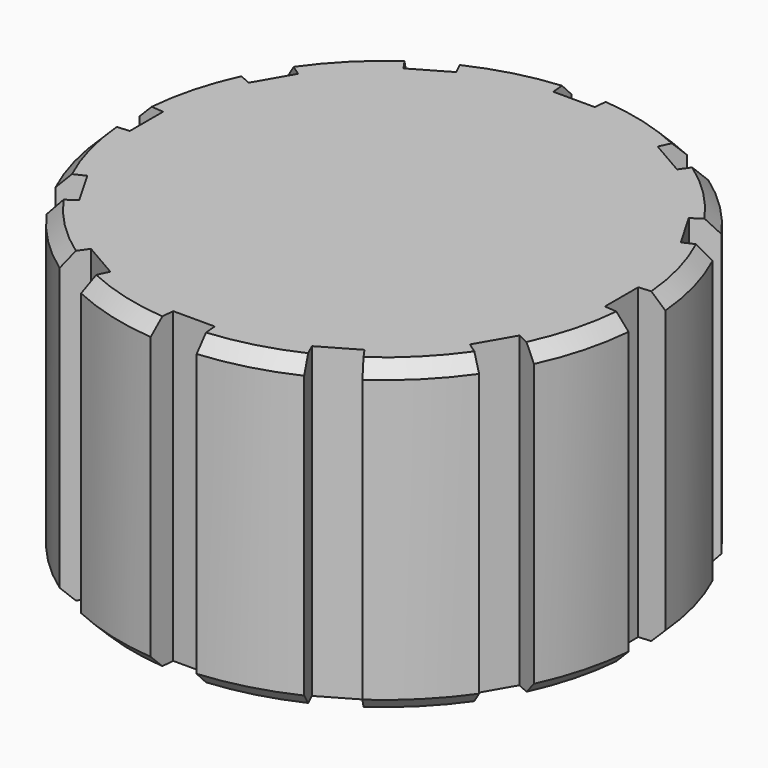
from build123d import *

# Parameters (mm, degrees)
SKETCH002_R        = 12
PAD002_DEPTH       = 14
CHAMFER_SIZE       = 0.6
POCKET_DEPTH       = 73.431239
POCKET_DEPTH_BACK  = 87.431239
POLARPATTERN_COUNT = 12
SKETCH_R           = 3.5
POCKET001_DEPTH    = 2
SKETCH004_R        = 2.9
POCKET002_DEPTH    = 9
SKETCH005_W        = 0.7
SKETCH005_H        = 6.120777
PAD_DEPTH          = 3


with BuildPart() as part:
    # Sketch002 → Pad002 (new body)
    with BuildSketch(Plane.XY):
        Circle(SKETCH002_R)
    extrude(amount=PAD002_DEPTH)

    # Chamfer
    chamfer_edges = [part.edges().sort_by_distance(p)[0] for p in [
        (-12, 0, 14),
        (-12, 0, 0),
    ]]
    chamfer(chamfer_edges, length=CHAMFER_SIZE)

    # Sketch003 → Pocket (cut, two sides)
    with BuildSketch(Plane.XY) as pocket_sk:
        Polygon((-1.058613, 12.1), (-0.944878, 10.8), (0.944878, 10.8), (1.058613, 12.1), align=None)
    pocket = extrude(amount=-POCKET_DEPTH, mode=Mode.SUBTRACT) + extrude(pocket_sk.sketch, amount=POCKET_DEPTH_BACK, mode=Mode.SUBTRACT)

    # PolarPattern: Pocket ×12 about axis
    polarpattern_axis = Axis((0, 0, 0), (0, 0, 1))
    for i in range(1, POLARPATTERN_COUNT):
        add(pocket.rotate(polarpattern_axis, i * 360 / POLARPATTERN_COUNT), mode=Mode.SUBTRACT)

    # Sketch → Pocket001 (cut)
    with BuildSketch(Plane.XY):
        Circle(SKETCH_R)
    extrude(amount=POCKET001_DEPTH, mode=Mode.SUBTRACT)

    # Sketch004 → Pocket002 (cut)
    with BuildSketch(Plane.XY):
        Circle(SKETCH004_R)
    extrude(amount=POCKET002_DEPTH, mode=Mode.SUBTRACT)

    # Sketch005 (on Face78 of Pocket002) → Pad (join)
    with BuildSketch(Plane(origin=(0, 0, 9), x_dir=(1, 0, 0), z_dir=(0, 0, -1))):
        with Locations((0, 0.049592)):
            Rectangle(SKETCH005_W, SKETCH005_H)
    extrude(amount=PAD_DEPTH)


solid = part.part
